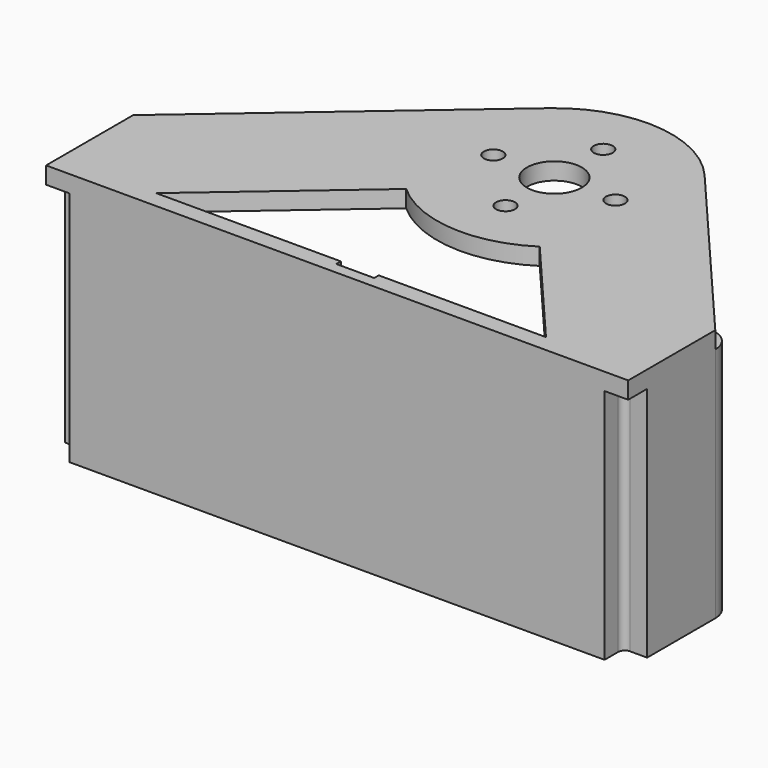
from build123d import *

# Parameters (mm, degrees)
SKETCH_R        = 1
SKETCH_R_2      = 2.9
PAD_DEPTH       = 1.8
PAD001_DEPTH    = 25
SKETCH004_W     = 4
SKETCH004_H     = 0.6
POCKET_DEPTH    = 22.8
SKETCH005_W     = 1.2
SKETCH005_H     = 3.2
POCKET001_DEPTH = 2.5


with BuildPart() as part:
    # Sketch → Pad (new body)
    with BuildSketch(Plane.XY):
        with BuildLine():
            Line((9.431274, 8.050532), (27.4, -13))
            Line((27.4, -13), (27.4, -24.5))
            Line((27.4, -24.5), (-34.1, -24.5))
            Line((-34.1, -24.5), (-34.1, -13))
            Line((-8.091275, 9.396344), (-34.1, -13))
            ThreePointArc((9.431274, 8.050532), (0.94958, 12.363588), (-8.091275, 9.396344))
        make_face()
        with Locations((6.45, 0)):
            Circle(SKETCH_R, mode=Mode.SUBTRACT)
        with Locations((-6.45, 0)):
            Circle(SKETCH_R, mode=Mode.SUBTRACT)
        with Locations((0, 6.45)):
            Circle(SKETCH_R, mode=Mode.SUBTRACT)
        with Locations((0, -6.45)):
            Circle(SKETCH_R, mode=Mode.SUBTRACT)
        Circle(SKETCH_R_2, mode=Mode.SUBTRACT)
        with BuildLine():
            Line((-8.273758, -9.236066), (-23.909335, -22.7))
            Line((-23.909335, -22.7), (17.273072, -22.7))
            Line((17.273072, -22.7), (6.766294, -10.391211))
            ThreePointArc((-8.273758, -9.236066), (-0.94958, -12.363588), (6.766294, -10.391211))
        make_face(mode=Mode.SUBTRACT)
    extrude(amount=PAD_DEPTH)

    # Sketch001 → Pad001 (new body)
    with BuildSketch(Plane(origin=(0, 0, 0), x_dir=(1, 0, 0), z_dir=(0, 0, -1))):
        with BuildLine():
            Line((24.9, 24.5), (-31.6, 24.5))
            Line((-31.6, 24.5), (-31.6, 22.7))
            ThreePointArc((-32.3, 22), (-31.805025, 22.205025), (-31.6, 22.7))
            Line((-32.3, 22), (-34.1, 22))
            Line((-34.1, 22), (-34.1, 13))
            ThreePointArc((-34.1, 13), (-33.6, 11.5), (-32.3, 10.6))
            Line((-32.3, 10.6), (-32.3, 20.2))
            ThreePointArc((-32.3, 20.2), (-30.532233, 20.932233), (-29.8, 22.7))
            Line((-29.8, 22.7), (23.1, 22.7))
            ThreePointArc((23.1, 22.7), (23.832233, 20.932233), (25.6, 20.2))
            Line((25.6, 10.6), (25.6, 20.2))
            ThreePointArc((25.6, 10.6), (26.9, 11.5), (27.4, 13))
            Line((27.4, 22), (27.4, 13))
            Line((25.6, 22), (27.4, 22))
            ThreePointArc((24.9, 22.7), (25.105025, 22.205025), (25.6, 22))
            Line((24.9, 24.5), (24.9, 22.7))
        make_face()
    extrude(amount=PAD001_DEPTH)

    # Sketch004 → Pocket (cut)
    with BuildSketch(Plane.XY.offset(1.8)):
        with Locations((-2.4, -23)):
            Rectangle(SKETCH004_W, SKETCH004_H)
    extrude(amount=-POCKET_DEPTH, mode=Mode.SUBTRACT)

    # Sketch005 → Pocket001 (cut)
    with BuildSketch(Plane(origin=(0, 0, -25), x_dir=(1, 0, 0), z_dir=(0, 0, -1))):
        with Locations((26.2, 15.7)):
            Rectangle(SKETCH005_W, SKETCH005_H)
        with Locations((-32.9, 15.7)):
            Rectangle(SKETCH005_W, SKETCH005_H)
    extrude(amount=-POCKET001_DEPTH, mode=Mode.SUBTRACT)


solid = part.part
